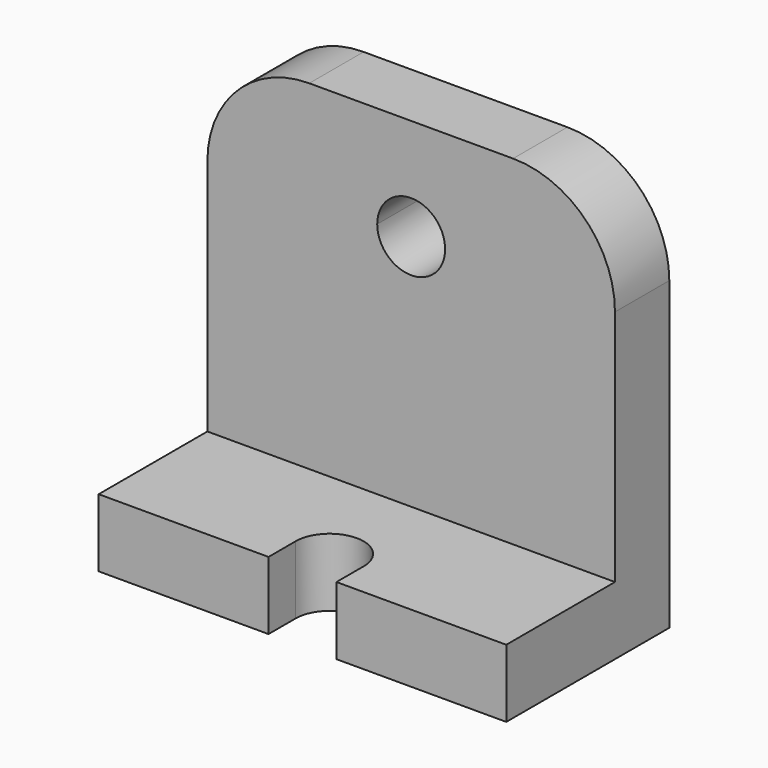
from build123d import *

# Parameters (mm, degrees)
F1_DEPTH = 76.2
F3_DEPTH = 25.4
F5_DEPTH = 45.466
F6_R     = 38.1
F7_R     = 38.1


with BuildPart() as f1:
    # F0 (on Right) → F1 (new body, symmetric)
    with BuildSketch(Plane.YZ):
        Polygon((-76.2, 0), (0, 0), (0, 152.4), (-25.4, 152.4), (-25.4, 25.4), (-76.2, 25.4), align=None)
    extrude(amount=F1_DEPTH, both=True)

    # F2 (on face) → F3 (cut)
    with BuildSketch(Plane(origin=(0, 0, 0), x_dir=(-1, 0, 0), z_dir=(0, 1, 0))):
        with BuildLine():
            ThreePointArc((0, 127), (-8.980256, 105.319744), (12.7, 114.3))
            ThreePointArc((12.7, 114.3), (8.980256, 123.280256), (0, 127))
        make_face()
    extrude(amount=-F3_DEPTH, mode=Mode.SUBTRACT)

    # F4 (on face) → F5 (cut)
    with BuildSketch(Plane.XY.offset(25.4)):
        with BuildLine():
            Line((12.7, -76.2), (12.7, -63.5))
            ThreePointArc((12.7, -63.5), (0, -50.8), (-12.7, -63.5))
            Line((-12.7, -63.5), (-12.7, -76.2))
            Line((-12.7, -76.2), (12.7, -76.2))
        make_face()
    extrude(amount=-F5_DEPTH, mode=Mode.SUBTRACT)

    # F6
    f6_edges = [f1.edges().sort_by_distance(p)[0] for p in [
        (76.2, -12.7, 152.4),
    ]]
    fillet(f6_edges, radius=F6_R)

    # F7
    f7_edges = [f1.edges().sort_by_distance(p)[0] for p in [
        (-76.2, -12.7, 152.4),
    ]]
    fillet(f7_edges, radius=F7_R)


solid = f1.part
